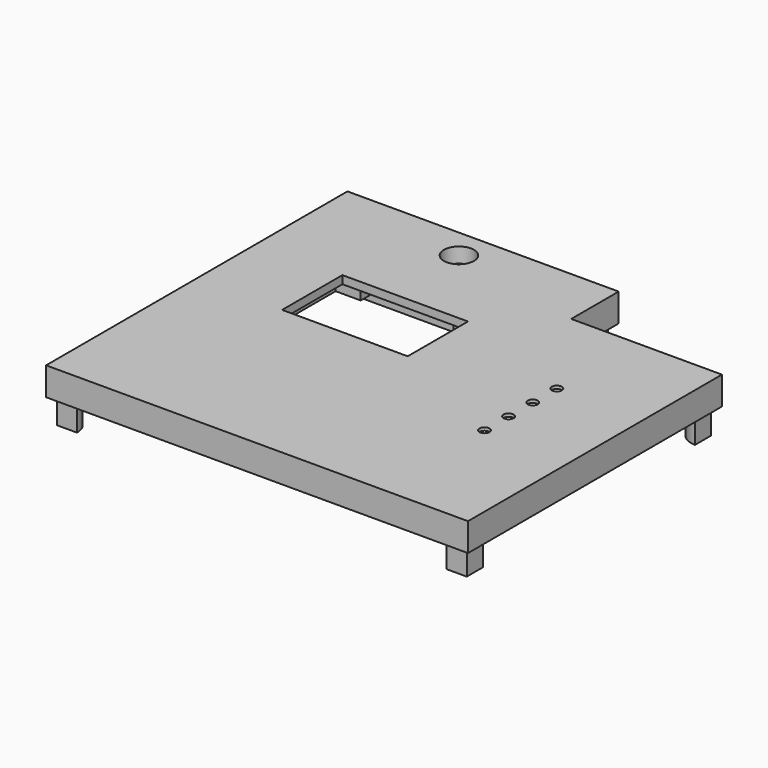
from build123d import *

# Parameters (mm, degrees)
SKETCH058_R     = 1.75
PAD036_DEPTH    = 5
SKETCH059_R     = 1.75
PAD037_DEPTH    = 0.6
SKETCH060_R     = 3
POCKET018_DEPTH = 3
SKETCH064_W     = 25
SKETCH064_H     = 15
POCKET020_DEPTH = 5
SKETCH065_W     = 32
SKETCH065_H     = 32
SKETCH065_W_2   = 25
SKETCH065_H_2   = 15
PAD040_DEPTH    = 3
POCKET021_DEPTH = 2
SKETCH067_W     = 32
SKETCH067_H     = 1.8
PAD041_DEPTH    = 2
SKETCH069_W     = 7.6
SKETCH069_H     = 1.2
PAD042_DEPTH    = 5
SKETCH070_R     = 1
POCKET022_DEPTH = 0.601
PAD043_DEPTH    = 10


with BuildPart() as part:
    # Sketch058 → Pad036 (new body)
    with BuildSketch(Plane.XY):
        Polygon((-42, 37.5), (12, 37.5), (12, 25.7), (42, 25.7), (42, -37.5), (-42, -37.5), align=None)
        with Locations((-15, 31.5)):
            Circle(SKETCH058_R, mode=Mode.SUBTRACT)
        with BuildLine():
            ThreePointArc((-18.5, 31.5), (-15, 28), (-11.5, 31.5))
            Line((-11.5, 31.5), (-11.5, 36.3))
            Line((-11.5, 36.3), (10.8, 36.3))
            Line((10.8, 36.3), (10.8, 24.5))
            Line((10.8, 24.5), (40.8, 24.5))
            Line((40.8, 24.5), (40.8, -36.3))
            Line((40.8, -36.3), (-40.8, -36.3))
            Line((-40.8, -36.3), (-40.8, 36.3))
            Line((-40.8, 36.3), (-18.5, 36.3))
            Line((-18.5, 31.5), (-18.5, 36.3))
        make_face(mode=Mode.SUBTRACT)
    extrude(amount=PAD036_DEPTH)

    # Sketch059 (on Face19 of Pad036) → Pad037 (join)
    with BuildSketch(Plane.XY.offset(5)):
        Polygon((-42, 37.5), (12, 37.5), (12, 25.7), (42, 25.7), (42, -37.5), (-42, -37.5), align=None)
        with Locations((-15, 31.5)):
            Circle(SKETCH059_R, mode=Mode.SUBTRACT)
    extrude(amount=PAD037_DEPTH)

    # Sketch060 (on Face1 of Pad037) → Pocket018 (cut)
    with BuildSketch(Plane.XY.offset(5.6)):
        with Locations((-15, 31.5)):
            Circle(SKETCH060_R)
    extrude(amount=-POCKET018_DEPTH, mode=Mode.SUBTRACT)

    # Sketch064 → Pocket020 (cut)
    with BuildSketch(Plane(origin=(0, 0, 5), x_dir=(1, 0, 0), z_dir=(0, 0, -1))):
        with Locations((-12.5, -7.5)):
            Rectangle(SKETCH064_W, SKETCH064_H)
    extrude(amount=-POCKET020_DEPTH, mode=Mode.SUBTRACT)

    # Sketch065 (on Face14 of Pocket020) → Pad040 (join)
    with BuildSketch(Plane(origin=(0, 0, 5), x_dir=(1, 0, 0), z_dir=(0, 0, -1))):
        with Locations((-12.5, -5)):
            Rectangle(SKETCH065_W, SKETCH065_H)
        with Locations((-12.5, -7.5)):
            Rectangle(SKETCH065_W_2, SKETCH065_H_2, mode=Mode.SUBTRACT)
    extrude(amount=PAD040_DEPTH)

    # Sketch066 (on Face24 of Pad040) → Pocket021 (cut)
    with BuildSketch(Plane(origin=(0, 0, 2), x_dir=(1, 0, 0), z_dir=(0, 0, -1))):
        Polygon((-26.75, -15.5), (-26.75, 5.5), (-21.75, 5.5), (-21.75, 9), (-3.25, 9), (-3.25, 5.5), (1.75, 5.5), (1.75, -15.5), (-3.25, -15.5), (-3.25, -19), (-21.75, -19), (-21.75, -15.5), align=None)
    extrude(amount=-POCKET021_DEPTH, mode=Mode.SUBTRACT)

    # Sketch067 (on Face40 of Pocket021) → Pad041 (join)
    with BuildSketch(Plane(origin=(0, 0, 2), x_dir=(1, 0, 0), z_dir=(0, 0, -1))):
        with Locations((-12.5, 10.1)):
            Rectangle(SKETCH067_W, SKETCH067_H)
        with Locations((-12.5, -20.1)):
            Rectangle(SKETCH067_W, SKETCH067_H)
    extrude(amount=PAD041_DEPTH)

    # Sketch069 (on Face13 of Pad041) → Pad042 (join)
    with BuildSketch(Plane(origin=(0, 0, 0), x_dir=(1, 0, 0), z_dir=(0, 0, -1))):
        with Locations((20.82, -25.1)):
            Rectangle(SKETCH069_W, SKETCH069_H)
    extrude(amount=PAD042_DEPTH)

    # Sketch070 (on Face40 of Pad042) → Pocket022 (cut, through all)
    with BuildSketch(Plane(origin=(0, 0, 5), x_dir=(1, 0, 0), z_dir=(0, 0, -1))):
        with Locations((24.892975, 0)):
            Circle(SKETCH070_R)
        with Locations((24.892975, -6)):
            Circle(SKETCH070_R)
        with Locations((24.892975, 6)):
            Circle(SKETCH070_R)
        with Locations((24.892975, 12)):
            Circle(SKETCH070_R)
    extrude(amount=-POCKET022_DEPTH, mode=Mode.SUBTRACT)

    # Sketch071 (on Face22 of Pocket022) → Pad043 (join)
    with BuildSketch(Plane(origin=(0, 0, 5), x_dir=(1, 0, 0), z_dir=(0, 0, -1))):
        with BuildLine():
            ThreePointArc((10.8, -32.3), (7.971573, -33.471573), (6.8, -36.3))
            Line((6.8, -36.3), (10.8, -36.3))
            Line((10.8, -36.3), (10.8, -32.3))
        make_face()
        with BuildLine():
            ThreePointArc((40.8, -20.5), (37.971573, -21.671573), (36.8, -24.5))
            Line((40.8, -24.5), (36.8, -24.5))
            Line((40.8, -20.5), (40.8, -24.5))
        make_face()
        with BuildLine():
            ThreePointArc((36.8, 36.3), (37.971573, 33.471573), (40.8, 32.3))
            Line((40.8, 36.3), (40.8, 32.3))
            Line((36.8, 36.3), (40.8, 36.3))
        make_face()
        with BuildLine():
            ThreePointArc((-40.8, 32.3), (-37.971573, 33.471573), (-36.8, 36.3))
            Line((-40.8, 36.3), (-36.8, 36.3))
            Line((-40.8, 32.3), (-40.8, 36.3))
        make_face()
        with BuildLine():
            ThreePointArc((-36.8, -36.3), (-37.971573, -33.471573), (-40.8, -32.3))
            Line((-40.8, -32.3), (-40.8, -36.3))
            Line((-36.8, -36.3), (-40.8, -36.3))
        make_face()
    extrude(amount=PAD043_DEPTH)


solid = part.part
